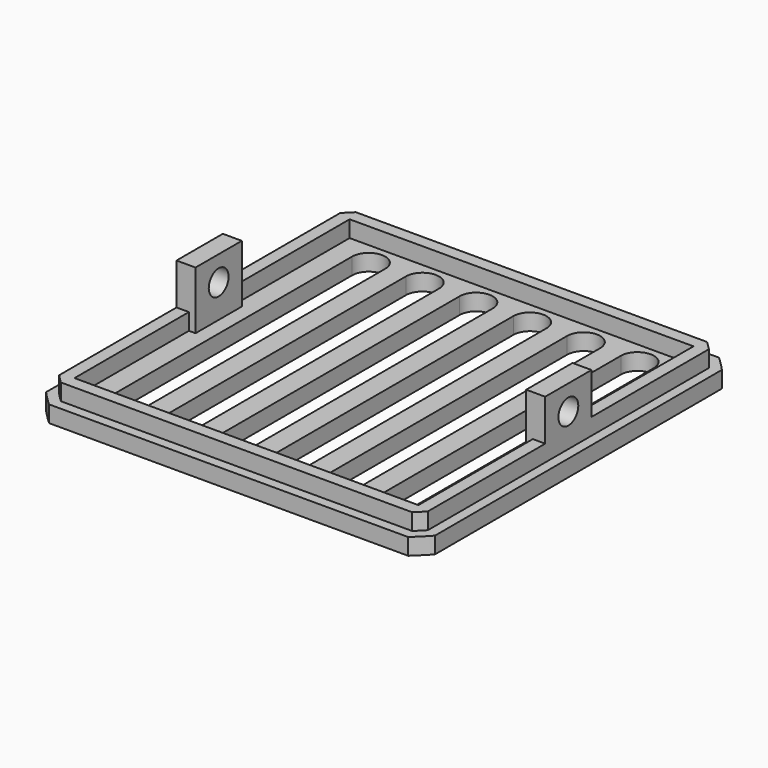
from build123d import *

# Parameters (mm, degrees)
PAD_DEPTH       = 2
SKETCH001_W     = 41.6
SKETCH001_H     = 41.6
PAD001_DEPTH    = 2
SKETCH002_W     = 2.3
SKETCH002_H     = 7
PAD002_DEPTH    = 7
SKETCH003_R     = 1.5
POCKET_DEPTH    = 45.820651
POCKET001_DEPTH = 2.001


with BuildPart() as part:
    # Sketch → Pad (new body)
    with BuildSketch(Plane.XY):
        with BuildLine():
            Line((-23.5, 21.719807), (-23.5, -21.719807))
            ThreePointArc((-23.5, -21.719807), (-22.627417, -22.627417), (-21.719807, -23.5))
            Line((-21.719807, -23.5), (21.719807, -23.5))
            ThreePointArc((21.719807, -23.5), (22.637656, -22.617174), (23.519651, -21.698526))
            Line((23.5, 21.719807), (23.519651, -21.698526))
            ThreePointArc((23.5, 21.719807), (22.627417, 22.627417), (21.719807, 23.5))
            Line((-21.719807, 23.5), (21.719807, 23.5))
            ThreePointArc((-21.719807, 23.5), (-22.627417, 22.627417), (-23.5, 21.719807))
        make_face()
    extrude(amount=PAD_DEPTH)

    # Sketch001 (on Face10 of Pad) → Pad001 (join)
    with BuildSketch(Plane.XY.offset(2)):
        with BuildLine():
            Line((-22.3, 21.244999), (-22.3, -21.244999))
            ThreePointArc((-22.3, -21.244999), (-21.778889, -21.778889), (-21.244999, -22.3))
            Line((-21.244999, -22.3), (21.244999, -22.3))
            ThreePointArc((21.244999, -22.3), (21.778889, -21.778889), (22.3, -21.244999))
            Line((22.3, 21.244999), (22.3, -21.244999))
            ThreePointArc((22.3, 21.244999), (21.778889, 21.778889), (21.244999, 22.3))
            Line((-21.244999, 22.3), (21.244999, 22.3))
            ThreePointArc((-21.244999, 22.3), (-21.778889, 21.778889), (-22.3, 21.244999))
        make_face()
        Rectangle(SKETCH001_W, SKETCH001_H, mode=Mode.SUBTRACT)
    extrude(amount=PAD001_DEPTH)

    # Sketch002 (on Face24 of Pad001) → Pad002 (join)
    with BuildSketch(Plane.XY.offset(2)):
        with Locations((-21.15, 0)):
            Rectangle(SKETCH002_W, SKETCH002_H)
        with Locations((21.15, 0)):
            Rectangle(SKETCH002_W, SKETCH002_H)
    extrude(amount=PAD002_DEPTH)

    # Sketch003 (on Face24 of Pad002) → Pocket (cut, through all)
    with BuildSketch(Plane(origin=(-22.3, 0, 0), x_dir=(0, -1, 0), z_dir=(-1, 0, 0))):
        with Locations((0, 6)):
            Circle(SKETCH003_R)
    extrude(amount=-POCKET_DEPTH, mode=Mode.SUBTRACT)

    # Sketch004 (on Face41 of Pocket) → Pocket001 (cut, through all)
    with BuildSketch(Plane.XY.offset(2)):
        with BuildLine():
            Line((-1.25, 18), (-1.25, -18))
            ThreePointArc((-5.25, -18), (-3.25, -20), (-1.25, -18))
            Line((-5.25, 18), (-5.25, -18))
            ThreePointArc((-1.25, 18), (-3.25, 20), (-5.25, 18))
        make_face()
        with BuildLine():
            Line((-7.75, 18), (-7.75, -18))
            ThreePointArc((-11.75, -18), (-9.75, -20), (-7.75, -18))
            Line((-11.75, 18), (-11.75, -18))
            ThreePointArc((-7.75, 18), (-9.75, 20), (-11.75, 18))
        make_face()
        with BuildLine():
            Line((-14.25, 18), (-14.25, -18))
            ThreePointArc((-18.25, -18), (-16.25, -20), (-14.25, -18))
            Line((-18.25, 18), (-18.25, -18))
            ThreePointArc((-14.25, 18), (-16.25, 20), (-18.25, 18))
        make_face()
        with BuildLine():
            Line((1.25, 18), (1.25, -18))
            ThreePointArc((1.25, -18), (3.25, -20), (5.25, -18))
            Line((5.25, 18), (5.25, -18))
            ThreePointArc((5.25, 18), (3.25, 20), (1.25, 18))
        make_face()
        with BuildLine():
            Line((7.75, 18), (7.75, -18))
            ThreePointArc((7.75, -18), (9.75, -20), (11.75, -18))
            Line((11.75, 18), (11.75, -18))
            ThreePointArc((11.75, 18), (9.75, 20), (7.75, 18))
        make_face()
        with BuildLine():
            Line((14.25, 18), (14.25, -18))
            ThreePointArc((14.25, -18), (16.25, -20), (18.25, -18))
            Line((18.25, 18), (18.25, -18))
            ThreePointArc((18.25, 18), (16.25, 20), (14.25, 18))
        make_face()
    extrude(amount=-POCKET001_DEPTH, mode=Mode.SUBTRACT)


solid = part.part
